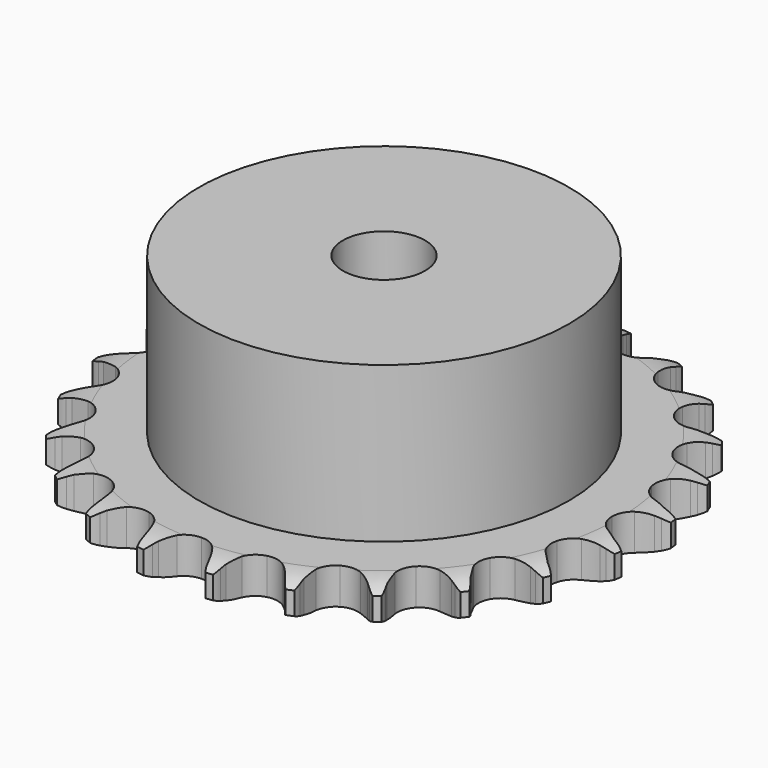
from build123d import *

# Parameters (mm, degrees)
PAD_DEPTH         = 5.3
SKETCH001_R       = 27
PAD001_DEPTH      = 28
SKETCH002_R       = 6
POCKET_DEPTH      = 0.001
POCKET_DEPTH_BACK = -28.001


with BuildPart() as part:
    # Sprocket → Pad (new body)
    with BuildSketch(Plane.XY):
        with BuildLine():
            ThreePointArc((-5.133642, 38.993881), (-4.474743, 38.184044), (-3.991056, 37.258825))
            Line((-3.991056, 37.258825), (-3.682734, 36.489264))
            ThreePointArc((-3.682734, 36.489264), (-3.189596, 35.466884), (-2.561718, 34.521254))
            ThreePointArc((-2.561718, 34.521254), (-1.428139, 33.59095), (0, 33.257955))
            ThreePointArc((0, 33.257955), (1.428139, 33.59095), (2.561718, 34.521254))
            ThreePointArc((2.561718, 34.521254), (3.189596, 35.466884), (3.682734, 36.489264))
            Line((3.682734, 36.489264), (3.991056, 37.258825))
            ThreePointArc((3.991056, 37.258825), (4.474743, 38.184044), (5.133642, 38.993881))
            ThreePointArc((5.133642, 38.993881), (5.560488, 38.041103), (5.788229, 37.022223))
            Line((5.788229, 37.022223), (5.886869, 36.199084))
            ThreePointArc((5.886869, 36.199084), (6.098591, 35.083907), (6.460328, 34.007992))
            ThreePointArc((6.460328, 34.007992), (7.314501, 32.815996), (8.607792, 32.124717))
            ThreePointArc((8.607792, 32.124717), (10.073454, 32.076737), (11.409188, 32.68195))
            Line((11.409188, 32.68195), (13.001364, 34.292761))
            ThreePointArc((13.001364, 34.292761), (13.24158, 34.630733), (13.498358, 34.9563))
            ThreePointArc((13.498358, 34.9563), (14.205028, 35.724806), (15.051076, 36.336513))
            ThreePointArc((15.051076, 36.336513), (15.216781, 35.305724), (15.173057, 34.262617))
            Line((15.173057, 34.262617), (15.055291, 33.441997))
            ThreePointArc((15.055291, 33.441997), (14.97117, 32.31002), (15.042114, 31.177142))
            ThreePointArc((15.042114, 31.177142), (15.55867, 29.804686), (16.628977, 28.802234))
            ThreePointArc((16.628977, 28.802234), (18.03228, 28.376547), (19.47914, 28.615424))
            Line((19.47914, 28.615424), (21.433973, 29.759263))
            ThreePointArc((21.433973, 29.759263), (21.753478, 30.023546), (22.085769, 30.271561))
            ThreePointArc((22.085769, 30.271561), (22.967263, 30.830981), (23.942805, 31.202871))
            ThreePointArc((23.942805, 31.202871), (23.836076, 30.164318), (23.523865, 29.168071))
            Line((23.523865, 29.168071), (23.19772, 28.405892))
            ThreePointArc((23.19772, 28.405892), (22.823489, 27.334259), (22.598805, 26.221621))
            ThreePointArc((22.598805, 26.221621), (22.742542, 24.762235), (23.516925, 23.516925))
            ThreePointArc((23.516925, 23.516925), (24.762235, 22.742542), (26.221621, 22.598805))
            Line((26.221621, 22.598805), (28.405892, 23.19772))
            ThreePointArc((28.405892, 23.19772), (28.782911, 23.370304), (29.168071, 23.523865))
            ThreePointArc((29.168071, 23.523865), (30.164318, 23.836076), (31.202871, 23.942805))
            ThreePointArc((31.202871, 23.942805), (30.830981, 22.967263), (30.271561, 22.085769))
            Line((30.271561, 22.085769), (29.759263, 21.433973))
            ThreePointArc((29.759263, 21.433973), (29.120424, 20.495713), (28.615424, 19.47914))
            ThreePointArc((28.615424, 19.47914), (28.376547, 18.03228), (28.802234, 16.628977))
            ThreePointArc((28.802234, 16.628977), (29.804686, 15.55867), (31.177142, 15.042114))
            Line((31.177142, 15.042114), (33.441997, 15.055291))
            ThreePointArc((33.441997, 15.055291), (33.850837, 15.124415), (34.262617, 15.173057))
            ThreePointArc((34.262617, 15.173057), (35.305724, 15.216781), (36.336513, 15.051076))
            ThreePointArc((36.336513, 15.051076), (35.724806, 14.205028), (34.9563, 13.498358))
            Line((34.9563, 13.498358), (34.292761, 13.001364))
            ThreePointArc((34.292761, 13.001364), (33.432851, 12.260418), (32.68195, 11.409188))
            ThreePointArc((32.68195, 11.409188), (32.076737, 10.073454), (32.124717, 8.607792))
            ThreePointArc((32.124717, 8.607792), (32.815996, 7.314501), (34.007992, 6.460328))
            Line((34.007992, 6.460328), (36.199084, 5.886869))
            ThreePointArc((36.199084, 5.886869), (36.611884, 5.847821), (37.022223, 5.788229))
            ThreePointArc((37.022223, 5.788229), (38.041103, 5.560488), (38.993881, 5.133642))
            ThreePointArc((38.993881, 5.133642), (38.184044, 4.474743), (37.258825, 3.991056))
            Line((37.258825, 3.991056), (36.489264, 3.682734))
            ThreePointArc((36.489264, 3.682734), (35.466884, 3.189596), (34.521254, 2.561718))
            ThreePointArc((34.521254, 2.561718), (33.59095, 1.428139), (33.257955, 0))
            ThreePointArc((33.257955, 0), (33.59095, -1.428139), (34.521254, -2.561718))
            Line((34.521254, -2.561718), (36.489264, -3.682734))
            ThreePointArc((36.489264, -3.682734), (36.877892, -3.827291), (37.258825, -3.991056))
            ThreePointArc((37.258825, -3.991056), (38.184044, -4.474743), (38.993881, -5.133642))
            ThreePointArc((38.993881, -5.133642), (38.041103, -5.560488), (37.022223, -5.788229))
            Line((37.022223, -5.788229), (36.199084, -5.886869))
            ThreePointArc((36.199084, -5.886869), (35.083907, -6.098591), (34.007992, -6.460328))
            ThreePointArc((34.007992, -6.460328), (32.815996, -7.314501), (32.124717, -8.607792))
            ThreePointArc((32.124717, -8.607792), (32.076737, -10.073454), (32.68195, -11.409188))
            Line((32.68195, -11.409188), (34.292761, -13.001364))
            ThreePointArc((34.292761, -13.001364), (34.630733, -13.24158), (34.9563, -13.498358))
            ThreePointArc((34.9563, -13.498358), (35.724806, -14.205028), (36.336513, -15.051076))
            ThreePointArc((36.336513, -15.051076), (35.305724, -15.216781), (34.262617, -15.173057))
            Line((34.262617, -15.173057), (33.441997, -15.055291))
            ThreePointArc((33.441997, -15.055291), (32.31002, -14.97117), (31.177142, -15.042114))
            ThreePointArc((31.177142, -15.042114), (29.804686, -15.55867), (28.802234, -16.628977))
            ThreePointArc((28.802234, -16.628977), (28.376547, -18.03228), (28.615424, -19.47914))
            Line((28.615424, -19.47914), (29.759263, -21.433973))
            ThreePointArc((29.759263, -21.433973), (30.023546, -21.753478), (30.271561, -22.085769))
            ThreePointArc((30.271561, -22.085769), (30.830981, -22.967263), (31.202871, -23.942805))
            ThreePointArc((31.202871, -23.942805), (30.164318, -23.836076), (29.168071, -23.523865))
            Line((29.168071, -23.523865), (28.405892, -23.19772))
            ThreePointArc((28.405892, -23.19772), (27.334259, -22.823489), (26.221621, -22.598805))
            ThreePointArc((26.221621, -22.598805), (24.762235, -22.742542), (23.516925, -23.516925))
            ThreePointArc((23.516925, -23.516925), (22.742542, -24.762235), (22.598805, -26.221621))
            Line((22.598805, -26.221621), (23.19772, -28.405892))
            ThreePointArc((23.19772, -28.405892), (23.370304, -28.782911), (23.523865, -29.168071))
            ThreePointArc((23.523865, -29.168071), (23.836076, -30.164318), (23.942805, -31.202871))
            ThreePointArc((23.942805, -31.202871), (22.967263, -30.830981), (22.085769, -30.271561))
            Line((22.085769, -30.271561), (21.433973, -29.759263))
            ThreePointArc((21.433973, -29.759263), (20.495713, -29.120424), (19.47914, -28.615424))
            ThreePointArc((19.47914, -28.615424), (18.03228, -28.376547), (16.628977, -28.802234))
            ThreePointArc((16.628977, -28.802234), (15.55867, -29.804686), (15.042114, -31.177142))
            Line((15.042114, -31.177142), (15.055291, -33.441997))
            ThreePointArc((15.055291, -33.441997), (15.124415, -33.850837), (15.173057, -34.262617))
            ThreePointArc((15.173057, -34.262617), (15.216781, -35.305724), (15.051076, -36.336513))
            ThreePointArc((15.051076, -36.336513), (14.205028, -35.724806), (13.498358, -34.9563))
            Line((13.498358, -34.9563), (13.001364, -34.292761))
            ThreePointArc((13.001364, -34.292761), (12.260418, -33.432851), (11.409188, -32.68195))
            ThreePointArc((11.409188, -32.68195), (10.073454, -32.076737), (8.607792, -32.124717))
            ThreePointArc((8.607792, -32.124717), (7.314501, -32.815996), (6.460328, -34.007992))
            Line((6.460328, -34.007992), (5.886869, -36.199084))
            ThreePointArc((5.886869, -36.199084), (5.847821, -36.611884), (5.788229, -37.022223))
            ThreePointArc((5.788229, -37.022223), (5.560488, -38.041103), (5.133642, -38.993881))
            ThreePointArc((5.133642, -38.993881), (4.474743, -38.184044), (3.991056, -37.258825))
            Line((3.991056, -37.258825), (3.682734, -36.489264))
            ThreePointArc((3.682734, -36.489264), (3.189596, -35.466884), (2.561718, -34.521254))
            ThreePointArc((2.561718, -34.521254), (1.428139, -33.59095), (0, -33.257955))
            ThreePointArc((0, -33.257955), (-1.428139, -33.59095), (-2.561718, -34.521254))
            Line((-2.561718, -34.521254), (-3.682734, -36.489264))
            ThreePointArc((-3.682734, -36.489264), (-3.827291, -36.877892), (-3.991056, -37.258825))
            ThreePointArc((-3.991056, -37.258825), (-4.474743, -38.184044), (-5.133642, -38.993881))
            ThreePointArc((-5.133642, -38.993881), (-5.560488, -38.041103), (-5.788229, -37.022223))
            Line((-5.788229, -37.022223), (-5.886869, -36.199084))
            ThreePointArc((-5.886869, -36.199084), (-6.098591, -35.083907), (-6.460328, -34.007992))
            ThreePointArc((-6.460328, -34.007992), (-7.314501, -32.815996), (-8.607792, -32.124717))
            ThreePointArc((-8.607792, -32.124717), (-10.073454, -32.076737), (-11.409188, -32.68195))
            Line((-11.409188, -32.68195), (-13.001364, -34.292761))
            ThreePointArc((-13.001364, -34.292761), (-13.24158, -34.630733), (-13.498358, -34.9563))
            ThreePointArc((-13.498358, -34.9563), (-14.205028, -35.724806), (-15.051076, -36.336513))
            ThreePointArc((-15.051076, -36.336513), (-15.216781, -35.305724), (-15.173057, -34.262617))
            Line((-15.173057, -34.262617), (-15.055291, -33.441997))
            ThreePointArc((-15.055291, -33.441997), (-14.97117, -32.31002), (-15.042114, -31.177142))
            ThreePointArc((-15.042114, -31.177142), (-15.55867, -29.804686), (-16.628977, -28.802234))
            ThreePointArc((-16.628977, -28.802234), (-18.03228, -28.376547), (-19.47914, -28.615424))
            Line((-19.47914, -28.615424), (-21.433973, -29.759263))
            ThreePointArc((-21.433973, -29.759263), (-21.753478, -30.023546), (-22.085769, -30.271561))
            ThreePointArc((-22.085769, -30.271561), (-22.967263, -30.830981), (-23.942805, -31.202871))
            ThreePointArc((-23.942805, -31.202871), (-23.836076, -30.164318), (-23.523865, -29.168071))
            Line((-23.523865, -29.168071), (-23.19772, -28.405892))
            ThreePointArc((-23.19772, -28.405892), (-22.823489, -27.334259), (-22.598805, -26.221621))
            ThreePointArc((-22.598805, -26.221621), (-22.742542, -24.762235), (-23.516925, -23.516925))
            ThreePointArc((-23.516925, -23.516925), (-24.762235, -22.742542), (-26.221621, -22.598805))
            Line((-26.221621, -22.598805), (-28.405892, -23.19772))
            ThreePointArc((-28.405892, -23.19772), (-28.782911, -23.370304), (-29.168071, -23.523865))
            ThreePointArc((-29.168071, -23.523865), (-30.164318, -23.836076), (-31.202871, -23.942805))
            ThreePointArc((-31.202871, -23.942805), (-30.830981, -22.967263), (-30.271561, -22.085769))
            Line((-30.271561, -22.085769), (-29.759263, -21.433973))
            ThreePointArc((-29.759263, -21.433973), (-29.120424, -20.495713), (-28.615424, -19.47914))
            ThreePointArc((-28.615424, -19.47914), (-28.376547, -18.03228), (-28.802234, -16.628977))
            ThreePointArc((-28.802234, -16.628977), (-29.804686, -15.55867), (-31.177142, -15.042114))
            Line((-31.177142, -15.042114), (-33.441997, -15.055291))
            ThreePointArc((-33.441997, -15.055291), (-33.850837, -15.124415), (-34.262617, -15.173057))
            ThreePointArc((-34.262617, -15.173057), (-35.305724, -15.216781), (-36.336513, -15.051076))
            ThreePointArc((-36.336513, -15.051076), (-35.724806, -14.205028), (-34.9563, -13.498358))
            Line((-34.9563, -13.498358), (-34.292761, -13.001364))
            ThreePointArc((-34.292761, -13.001364), (-33.432851, -12.260418), (-32.68195, -11.409188))
            ThreePointArc((-32.68195, -11.409188), (-32.076737, -10.073454), (-32.124717, -8.607792))
            ThreePointArc((-32.124717, -8.607792), (-32.815996, -7.314501), (-34.007992, -6.460328))
            Line((-34.007992, -6.460328), (-36.199084, -5.886869))
            ThreePointArc((-36.199084, -5.886869), (-36.611884, -5.847821), (-37.022223, -5.788229))
            ThreePointArc((-37.022223, -5.788229), (-38.041103, -5.560488), (-38.993881, -5.133642))
            ThreePointArc((-38.993881, -5.133642), (-38.184044, -4.474743), (-37.258825, -3.991056))
            Line((-37.258825, -3.991056), (-36.489264, -3.682734))
            ThreePointArc((-36.489264, -3.682734), (-35.466884, -3.189596), (-34.521254, -2.561718))
            ThreePointArc((-34.521254, -2.561718), (-33.59095, -1.428139), (-33.257955, 0))
            ThreePointArc((-33.257955, 0), (-33.59095, 1.428139), (-34.521254, 2.561718))
            Line((-34.521254, 2.561718), (-36.489264, 3.682734))
            ThreePointArc((-36.489264, 3.682734), (-36.877892, 3.827291), (-37.258825, 3.991056))
            ThreePointArc((-37.258825, 3.991056), (-38.184044, 4.474743), (-38.993881, 5.133642))
            ThreePointArc((-38.993881, 5.133642), (-38.041103, 5.560488), (-37.022223, 5.788229))
            Line((-37.022223, 5.788229), (-36.199084, 5.886869))
            ThreePointArc((-36.199084, 5.886869), (-35.083907, 6.098591), (-34.007992, 6.460328))
            ThreePointArc((-34.007992, 6.460328), (-32.815996, 7.314501), (-32.124717, 8.607792))
            ThreePointArc((-32.124717, 8.607792), (-32.076737, 10.073454), (-32.68195, 11.409188))
            Line((-32.68195, 11.409188), (-34.292761, 13.001364))
            ThreePointArc((-34.292761, 13.001364), (-34.630733, 13.24158), (-34.9563, 13.498358))
            ThreePointArc((-34.9563, 13.498358), (-35.724806, 14.205028), (-36.336513, 15.051076))
            ThreePointArc((-36.336513, 15.051076), (-35.305724, 15.216781), (-34.262617, 15.173057))
            Line((-34.262617, 15.173057), (-33.441997, 15.055291))
            ThreePointArc((-33.441997, 15.055291), (-32.31002, 14.97117), (-31.177142, 15.042114))
            ThreePointArc((-31.177142, 15.042114), (-29.804686, 15.55867), (-28.802234, 16.628977))
            ThreePointArc((-28.802234, 16.628977), (-28.376547, 18.03228), (-28.615424, 19.47914))
            Line((-28.615424, 19.47914), (-29.759263, 21.433973))
            ThreePointArc((-29.759263, 21.433973), (-30.023546, 21.753478), (-30.271561, 22.085769))
            ThreePointArc((-30.271561, 22.085769), (-30.830981, 22.967263), (-31.202871, 23.942805))
            ThreePointArc((-31.202871, 23.942805), (-30.164318, 23.836076), (-29.168071, 23.523865))
            Line((-29.168071, 23.523865), (-28.405892, 23.19772))
            ThreePointArc((-28.405892, 23.19772), (-27.334259, 22.823489), (-26.221621, 22.598805))
            ThreePointArc((-26.221621, 22.598805), (-24.762235, 22.742542), (-23.516925, 23.516925))
            ThreePointArc((-23.516925, 23.516925), (-22.742542, 24.762235), (-22.598805, 26.221621))
            Line((-22.598805, 26.221621), (-23.19772, 28.405892))
            ThreePointArc((-23.19772, 28.405892), (-23.370304, 28.782911), (-23.523865, 29.168071))
            ThreePointArc((-23.523865, 29.168071), (-23.836076, 30.164318), (-23.942805, 31.202871))
            ThreePointArc((-23.942805, 31.202871), (-22.967263, 30.830981), (-22.085769, 30.271561))
            Line((-22.085769, 30.271561), (-21.433973, 29.759263))
            ThreePointArc((-21.433973, 29.759263), (-20.495713, 29.120424), (-19.47914, 28.615424))
            ThreePointArc((-19.47914, 28.615424), (-18.03228, 28.376547), (-16.628977, 28.802234))
            ThreePointArc((-16.628977, 28.802234), (-15.55867, 29.804686), (-15.042114, 31.177142))
            Line((-15.042114, 31.177142), (-15.055291, 33.441997))
            ThreePointArc((-15.055291, 33.441997), (-15.124415, 33.850837), (-15.173057, 34.262617))
            ThreePointArc((-15.173057, 34.262617), (-15.216781, 35.305724), (-15.051076, 36.336513))
            ThreePointArc((-15.051076, 36.336513), (-14.205028, 35.724806), (-13.498358, 34.9563))
            Line((-13.498358, 34.9563), (-13.001364, 34.292761))
            ThreePointArc((-13.001364, 34.292761), (-12.260418, 33.432851), (-11.409188, 32.68195))
            ThreePointArc((-11.409188, 32.68195), (-10.073454, 32.076737), (-8.607792, 32.124717))
            ThreePointArc((-8.607792, 32.124717), (-7.314501, 32.815996), (-6.460328, 34.007992))
            Line((-6.460328, 34.007992), (-5.886869, 36.199084))
            ThreePointArc((-5.886869, 36.199084), (-5.847821, 36.611884), (-5.788229, 37.022223))
            ThreePointArc((-5.788229, 37.022223), (-5.560488, 38.041103), (-5.133642, 38.993881))
        make_face()
    extrude(amount=PAD_DEPTH)

    # Sketch → Groove (revolve, cut)
    with BuildSketch(Plane.XZ):
        with BuildLine():
            Line((34.141101, 0), (38.5, 0))
            Line((42.858899, 0), (38.5, 0))
            Line((42.858899, 5.3), (42.858899, 0))
            Line((38.5, 5.3), (42.858899, 5.3))
            Line((34.141101, 5.3), (38.5, 5.3))
            ThreePointArc((38.5, 4.3), (36.377169, 5.046794), (34.141101, 5.3))
            Line((38.5, 1), (38.5, 4.3))
            ThreePointArc((34.141101, 0), (36.377169, 0.253206), (38.5, 1))
        make_face()
    revolve(axis=Axis((0, 0, 0), (0, 0, 1)), mode=Mode.SUBTRACT)

    # Sketch001 → Pad001 (join)
    with BuildSketch(Plane.XY):
        Circle(SKETCH001_R)
    extrude(amount=PAD001_DEPTH)

    # Sketch002 → Pocket (cut, two sides)
    with BuildSketch(Plane.XY) as pocket_sk:
        Circle(SKETCH002_R)
    extrude(amount=-POCKET_DEPTH, mode=Mode.SUBTRACT)
    extrude(pocket_sk.sketch, amount=-POCKET_DEPTH_BACK, mode=Mode.SUBTRACT)


solid = part.part
